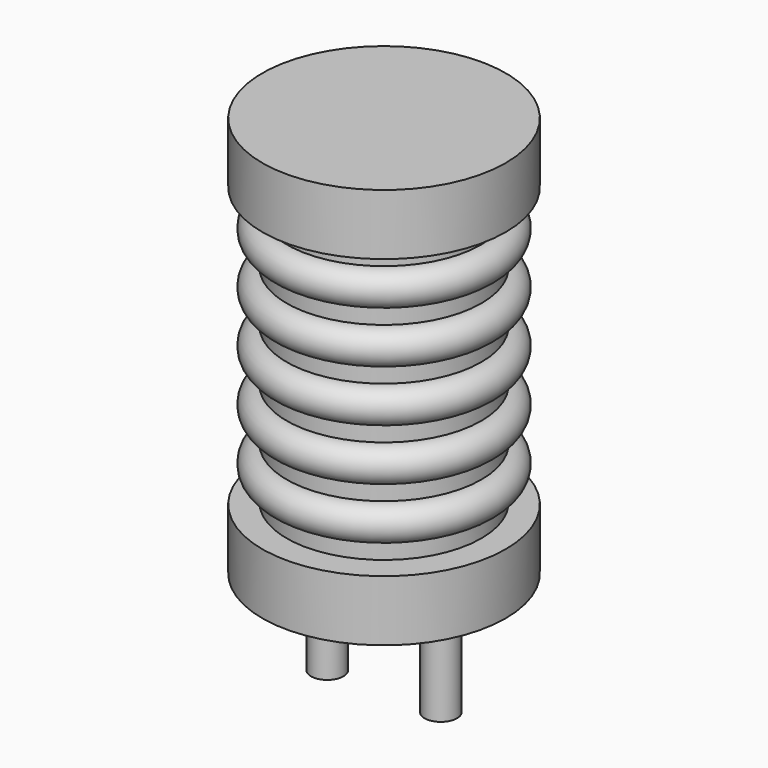
from build123d import *

# Parameters (mm, degrees)
SKETCH001_R  = 0.5
PAD001_DEPTH = 3.5


with BuildPart() as revolution:
    # Sketch → Revolution (revolve)
    with BuildSketch(Plane(origin=(1.75, 0, 0), x_dir=(1, 0, 0), z_dir=(0, -1, 0))):
        Polygon((0, 0.05), (0.75, 0.05), (0.75, 0.2), (3.75, 0.2), (3.75, 2.075), (0.75, 2.075), (0.75, 10.675), (3.75, 10.675), (3.75, 12.55), (0, 12.55), align=None)
    revolve(axis=Axis((1.75, 0, 0), (0, 0, 1)))


with BuildPart() as pad001:
    # Sketch001 → Pad001 (new body)
    with BuildSketch(Plane.XY.offset(0.5)):
        Circle(SKETCH001_R)
        with Locations((3.5, 0)):
            Circle(SKETCH001_R)
    extrude(amount=-PAD001_DEPTH)


with BuildPart() as obj1:
    # Sketch002 → Revolution001 (revolve)
    with BuildSketch(Plane(origin=(1.75, 0, 0), x_dir=(1, 0, 0), z_dir=(0, -1, 0))):
        with BuildLine():
            Line((3, 2.125), (0.75, 2.125))
            Line((0.75, 2.125), (0.75, 10.625))
            Line((0.75, 10.625), (3, 10.625))
            Line((3, 10.625), (3, 10.09375))
            ThreePointArc((3, 9.03125), (3.53125, 9.5625), (3, 10.09375))
            Line((3, 9.03125), (3, 8.5))
            ThreePointArc((3, 7.4375), (3.53125, 7.96875), (3, 8.5))
            Line((3, 7.4375), (3, 6.90625))
            ThreePointArc((3, 5.84375), (3.53125, 6.375), (3, 6.90625))
            Line((3, 5.84375), (3, 5.3125))
            ThreePointArc((3, 4.25), (3.53125, 4.78125), (3, 5.3125))
            Line((3, 4.25), (3, 3.71875))
            ThreePointArc((3, 2.65625), (3.53125, 3.1875), (3, 3.71875))
            Line((3, 2.125), (3, 2.65625))
        make_face()
    revolve(axis=Axis((1.75, 0, 0), (0, 0, 1)))

    add(revolution.part)
    add(pad001.part)


solid = obj1.part
